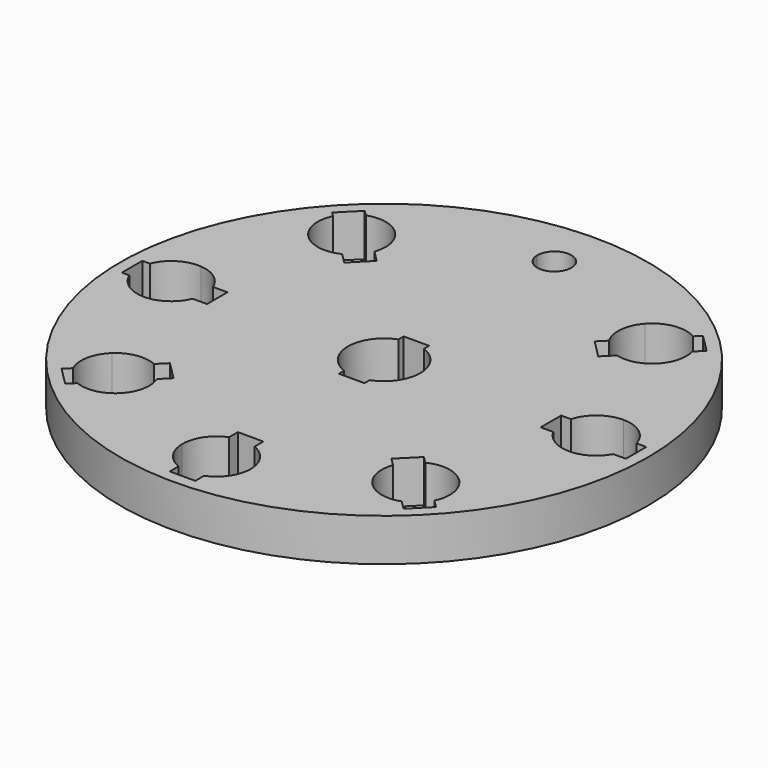
from build123d import *

# Parameters (mm, degrees)
F0_R     = 31
F1_DEPTH = 5


with BuildPart() as f1:
    # F0 (on Top) → F1 (new body)
    with BuildSketch(Plane.XY):
        Circle(F0_R)
        with BuildLine():
            ThreePointArc((-28.7080992435, 1.5), (-27.1015041114, 3.4034806404), (-24.68, 3.9871794542))
            ThreePointArc((-24.68, 3.9871794542), (-23.1340148639, 9.4772019223), (-20.3839350968, 14.4739486654))
            ThreePointArc((-20.3839350968, 14.4739486654), (-21.7843066075, 16.7218663809), (-21.4732899684, 19.3519696248))
            Line((-21.4732899684, 19.3519696248), (-21.9870643658, 19.8657440223))
            Line((-21.9870643658, 19.8657440223), (-19.8657440223, 21.9870643658))
            Line((-19.8657440223, 21.9870643658), (-19.2357510946, 21.3570714382))
            ThreePointArc((-19.2357510946, 21.3570714382), (-16.8275788969, 21.4526090468), (-14.8016328487, 20.1472495644))
            ThreePointArc((-14.8016328487, 20.1472495644), (-8.7324141696, 23.4253056068), (-1.9983993595, 24.92))
            ThreePointArc((-1.9983993595, 24.92), (-0.0400080056, 26.9995997998), (2, 25))
            ThreePointArc((2, 25), (1.9995997998, 24.9599919944), (1.9983993595, 24.92))
            ThreePointArc((1.9983993595, 24.92), (8.396839067, 23.5476770337), (14.2199501873, 20.5619312485))
            ThreePointArc((14.2199501873, 20.5619312485), (16.578332036, 21.8337211242), (19.2103126472, 21.3316329908))
            Line((19.2103126472, 21.3316329908), (19.8657440223, 21.9870643658))
            Line((19.8657440223, 21.9870643658), (21.9870643658, 19.8657440223))
            Line((21.9870643658, 19.8657440223), (21.048652157, 18.9273318134))
            ThreePointArc((21.048652157, 18.9273318134), (21.1530642912, 18.408521084), (21.1880725996, 17.8804672182))
            ThreePointArc((21.1880725996, 17.8804672182), (20.8749504136, 16.3290382046), (19.9846066074, 15.020502613))
            ThreePointArc((19.9846066074, 15.020502613), (22.9196691944, 9.9844260737), (24.608757715, 4.4055696256))
            ThreePointArc((24.608757715, 4.4055696256), (27.0107687706, 3.5932566366), (28.4417775606, 1.5))
            Line((28.4417775606, 1.5), (29.5944046229, 1.5))
            Line((29.5944046229, 1.5), (29.5944046229, -1.5))
            Line((29.5944046229, -1.5), (28.1113217756, -1.5))
            ThreePointArc((28.1113217756, -1.5), (26.7035545193, -2.9931524386), (24.7406441339, -3.5917304797))
            ThreePointArc((24.7406441339, -3.5917304797), (23.2131665144, -9.2816431936), (20.3965858209, -14.4561158978))
            ThreePointArc((20.3965858209, -14.4561158978), (21.1955475808, -15.7195454325), (21.4748718411, -17.1880725996))
            ThreePointArc((21.4748718411, -17.1880725996), (21.3717482185, -18.0904885234), (21.0676945913, -18.9463742477))
            Line((21.0676945913, -18.9463742477), (21.9870643658, -19.8657440223))
            Line((21.9870643658, -19.8657440223), (19.8657440223, -21.9870643658))
            Line((19.8657440223, -21.9870643658), (18.8301557175, -20.9514760611))
            ThreePointArc((18.8301557175, -20.9514760611), (16.7005194557, -21.1124041838), (14.7916340459, -20.1545915923))
            ThreePointArc((14.7916340459, -20.1545915923), (9.6637784532, -23.0566993737), (3.9991249765, -24.6780671736))
            ThreePointArc((3.9991249765, -24.6780671736), (3.2930577298, -26.865036867), (1.5, -28.3025038665))
            Line((1.5, -28.3025038665), (1.5, -29.5944046229))
            Line((1.5, -29.5944046229), (-1.5, -29.5944046229))
            Line((-1.5, -29.5944046229), (-1.5, -28.3025038665))
            ThreePointArc((-1.5, -28.3025038665), (-3.2930577298, -26.865036867), (-3.9991249765, -24.6780671736))
            ThreePointArc((-3.9991249765, -24.6780671736), (-9.606613518, -23.0805757449), (-14.691565202, -20.2276521602))
            ThreePointArc((-14.691565202, -20.2276521602), (-16.7333297142, -21.3812535524), (-19.0708139147, -21.1921342582))
            Line((-19.0708139147, -21.1921342582), (-19.8657440223, -21.9870643658))
            Line((-19.8657440223, -21.9870643658), (-21.9870643658, -19.8657440223))
            Line((-21.9870643658, -19.8657440223), (-21.2402040172, -19.1188836736))
            ThreePointArc((-21.2402040172, -19.1188836736), (-21.5159012518, -16.6899602951), (-20.326723356, -14.5541855701))
            ThreePointArc((-20.326723356, -14.5541855701), (-23.115291289, -9.522778409), (-24.68, -3.9871794542))
            ThreePointArc((-24.68, -3.9871794542), (-27.1015041114, -3.4034806404), (-28.7080992435, -1.5))
            Line((-28.7080992435, -1.5), (-29.5944046229, -1.5))
            Line((-29.5944046229, -1.5), (-29.5944046229, 1.5))
            Line((-29.5944046229, 1.5), (-28.7080992435, 1.5))
        make_face(mode=Mode.SUBTRACT)
        with BuildLine():
            ThreePointArc((-24.68, 3.9871794542), (-22.6329530448, 3.2244516916), (-21.2919007565, 1.5))
            Line((-21.2919007565, 1.5), (-19.5944046229, 1.5))
            Line((-19.5944046229, 1.5), (-19.5944046229, -1.5))
            Line((-19.5944046229, -1.5), (-21.2919007565, -1.5))
            ThreePointArc((-21.2919007565, -1.5), (-22.6329530448, -3.2244516916), (-24.68, -3.9871794542))
            ThreePointArc((-24.68, -3.9871794542), (-23.115291289, -9.522778409), (-20.326723356, -14.5541855701))
            ThreePointArc((-20.326723356, -14.5541855701), (-18.2480519875, -13.5287621662), (-15.9496561442, -13.8283358006))
            Line((-15.9496561442, -13.8283358006), (-14.915996554, -12.7946762104))
            Line((-14.915996554, -12.7946762104), (-12.7946762104, -14.915996554))
            Line((-12.7946762104, -14.915996554), (-13.8764055595, -15.9977259031))
            ThreePointArc((-13.8764055595, -15.9977259031), (-13.664988194, -16.7228910131), (-13.5936679767, -17.4748718411))
            ThreePointArc((-13.5936679767, -17.4748718411), (-13.8782668477, -18.95669317), (-14.691565202, -20.2276521602))
            ThreePointArc((-14.691565202, -20.2276521602), (-9.606613518, -23.0805757449), (-3.9991249765, -24.6780671736))
            ThreePointArc((-3.9991249765, -24.6780671736), (-3.3398290754, -22.3931454952), (-1.5, -20.8863053794))
            Line((-1.5, -20.8863053794), (-1.5, -19.5944046229))
            Line((-1.5, -19.5944046229), (1.5, -19.5944046229))
            Line((1.5, -19.5944046229), (1.5, -20.8863053794))
            ThreePointArc((1.5, -20.8863053794), (3.3166247904, -22.3583366454), (4, -24.5944046229))
            ThreePointArc((4, -24.5944046229), (3.9997812381, -24.6362381861), (3.9991249765, -24.6780671736))
            ThreePointArc((3.9991249765, -24.6780671736), (9.6637784532, -23.0566993737), (14.7916340459, -20.1545915923))
            ThreePointArc((14.7916340459, -20.1545915923), (13.5942416238, -18.1579742011), (13.7114683796, -15.8327887231))
            Line((13.7114683796, -15.8327887231), (12.7946762104, -14.915996554))
            Line((12.7946762104, -14.915996554), (14.915996554, -12.7946762104))
            Line((14.915996554, -12.7946762104), (15.716570193, -13.5952498494))
            ThreePointArc((15.716570193, -13.5952498494), (18.1985117044, -13.2540739534), (20.3965858209, -14.4561158978))
            ThreePointArc((20.3965858209, -14.4561158978), (23.2131665144, -9.2816431936), (24.7406441339, -3.5917304797))
            ThreePointArc((24.7406441339, -3.5917304797), (22.6109225733, -3.0679905163), (21.0774874702, -1.5))
            Line((21.0774874702, -1.5), (19.5944046229, -1.5))
            Line((19.5944046229, -1.5), (19.5944046229, 1.5))
            Line((19.5944046229, 1.5), (20.7470316853, 1.5))
            ThreePointArc((20.7470316853, 1.5), (22.1894942303, 3.6019066891), (24.608757715, 4.4055696256))
            ThreePointArc((24.608757715, 4.4055696256), (22.9196691944, 9.9844260737), (19.9846066074, 15.020502613))
            ThreePointArc((19.9846066074, 15.020502613), (18.1958639143, 14.0095039446), (16.1412080043, 14.0198876608))
            Line((16.1412080043, 14.0198876608), (14.915996554, 12.7946762104))
            Line((14.915996554, 12.7946762104), (12.7946762104, 14.915996554))
            Line((12.7946762104, 14.915996554), (13.736906827, 15.8582271706))
            ThreePointArc((13.736906827, 15.8582271706), (13.2089994395, 18.2890951502), (14.2199501873, 20.5619312485))
            ThreePointArc((14.2199501873, 20.5619312485), (8.396839067, 23.5476770337), (1.9983993595, 24.92))
            ThreePointArc((1.9983993595, 24.92), (0, 23), (-1.9983993595, 24.92))
            ThreePointArc((-1.9983993595, 24.92), (-8.7324141696, 23.4253056068), (-14.8016328487, 20.1472495644))
            ThreePointArc((-14.8016328487, 20.1472495644), (-14.1177994493, 18.9509930155), (-13.8804672182, 17.5936679767))
            ThreePointArc((-13.8804672182, 17.5936679767), (-13.9400602693, 16.9057776679), (-14.1170637567, 16.2383841002))
            Line((-14.1170637567, 16.2383841002), (-12.7946762104, 14.915996554))
            Line((-12.7946762104, 14.915996554), (-14.915996554, 12.7946762104))
            Line((-14.915996554, 12.7946762104), (-16.12216557, 14.0008452265))
            ThreePointArc((-16.12216557, 14.0008452265), (-18.3218003053, 13.618089389), (-20.3839350968, 14.4739486654))
            ThreePointArc((-20.3839350968, 14.4739486654), (-23.1340148639, 9.4772019223), (-24.68, 3.9871794542))
        make_face()
        with BuildLine():
            ThreePointArc((1.5, 3.9764934301), (3.4955328635, 2.4173849507), (4.25, 0))
            ThreePointArc((4.25, 0), (3.4955328635, -2.4173849507), (1.5, -3.9764934301))
            Line((1.5, -3.9764934301), (1.5, -4.75))
            Line((1.5, -4.75), (-1.5, -4.75))
            Line((-1.5, -4.75), (-1.5, -3.9764934301))
            ThreePointArc((-1.5, -3.9764934301), (-4.25, 0), (-1.5, 3.9764934301))
            Line((-1.5, 3.9764934301), (-1.5, 4.75))
            Line((-1.5, 4.75), (1.5, 4.75))
            Line((1.5, 4.75), (1.5, 3.9764934301))
        make_face(mode=Mode.SUBTRACT)
    extrude(amount=F1_DEPTH)


solid = f1.part
